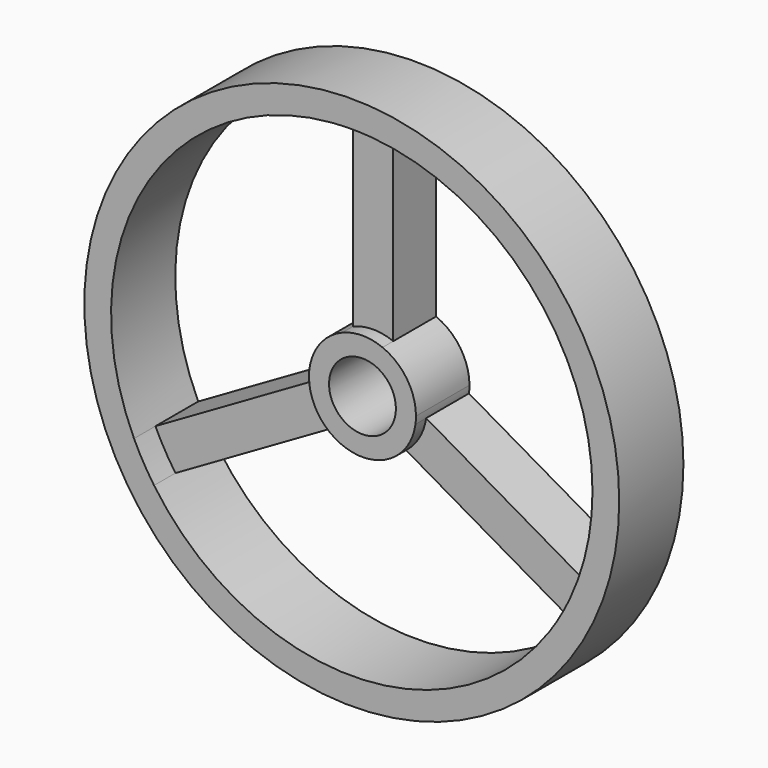
from build123d import *

# Parameters (mm, degrees)
F0_R     = 127
F1_DEPTH = 38.1
F0_R_2   = 15.875
F2_DEPTH = 31.75
F3_DEPTH = 25.4


with BuildPart() as f1:
    # F0 (on Front) → F1 (new body)
    with BuildSketch(Plane.XZ):
        Circle(F0_R)
        with BuildLine():
            ThreePointArc((9.525, 113.902434), (84.122522, 77.381466), (114.3, 0))
            ThreePointArc((114.3, 0), (111.542974, -24.953054), (103.404901, -48.702325))
            ThreePointArc((103.404901, -48.702325), (98.986704, -57.15), (93.879901, -65.200109))
            ThreePointArc((93.879901, -65.200109), (0, -114.3), (-93.879901, -65.200109))
            ThreePointArc((-93.879901, -65.200109), (-98.986704, -57.15), (-103.404901, -48.702325))
            ThreePointArc((-103.404901, -48.702325), (-98.986704, 57.15), (-9.525, 113.902434))
            ThreePointArc((-9.525, 113.902434), (0, 114.3), (9.525, 113.902434))
        make_face(mode=Mode.SUBTRACT)
    extrude(amount=F1_DEPTH)


with BuildPart() as f2:
    # F0 (on Front) → F2 (new body)
    with BuildSketch(Plane.XZ):
        with BuildLine():
            ThreePointArc((25.4, 0), (21.060567, 14.199032), (9.525, 23.54643))
            ThreePointArc((9.525, 23.54643), (0, 25.4), (-9.525, 23.54643))
            ThreePointArc((-9.525, 23.54643), (-21.997045, 12.7), (-25.154307, -3.524323))
            ThreePointArc((-25.154307, -3.524323), (-21.997045, -12.7), (-15.629307, -20.022107))
            ThreePointArc((-15.629307, -20.022107), (0, -25.4), (15.629307, -20.022107))
            ThreePointArc((15.629307, -20.022107), (21.997045, -12.7), (25.154307, -3.524323))
            ThreePointArc((25.154307, -3.524323), (25.338502, -1.766438), (25.4, 0))
        make_face()
        Circle(F0_R_2, mode=Mode.SUBTRACT)
    extrude(amount=F2_DEPTH)


with BuildPart() as f3:
    # F0 (on Front) → F3 (new body)
    with BuildSketch(Plane.XZ):
        with BuildLine():
            Line((9.525, 23.54643), (9.525, 113.902434))
            ThreePointArc((9.525, 113.902434), (0, 114.3), (-9.525, 113.902434))
            Line((-9.525, 113.902434), (-9.525, 23.54643))
            ThreePointArc((-9.525, 23.54643), (0, 25.4), (9.525, 23.54643))
        make_face()
        with BuildLine():
            Line((-25.154307, -3.524323), (-103.404901, -48.702325))
            ThreePointArc((-103.404901, -48.702325), (-98.986704, -57.15), (-93.879901, -65.200109))
            Line((-93.879901, -65.200109), (-15.629307, -20.022107))
            ThreePointArc((-15.629307, -20.022107), (-21.997045, -12.7), (-25.154307, -3.524323))
        make_face()
        with BuildLine():
            ThreePointArc((93.879901, -65.200109), (98.986704, -57.15), (103.404901, -48.702325))
            Line((103.404901, -48.702325), (25.154307, -3.524323))
            ThreePointArc((25.154307, -3.524323), (21.997045, -12.7), (15.629307, -20.022107))
            Line((15.629307, -20.022107), (93.879901, -65.200109))
        make_face()
    extrude(amount=F3_DEPTH)


solid = Compound([f1.part, f2.part, f3.part])
